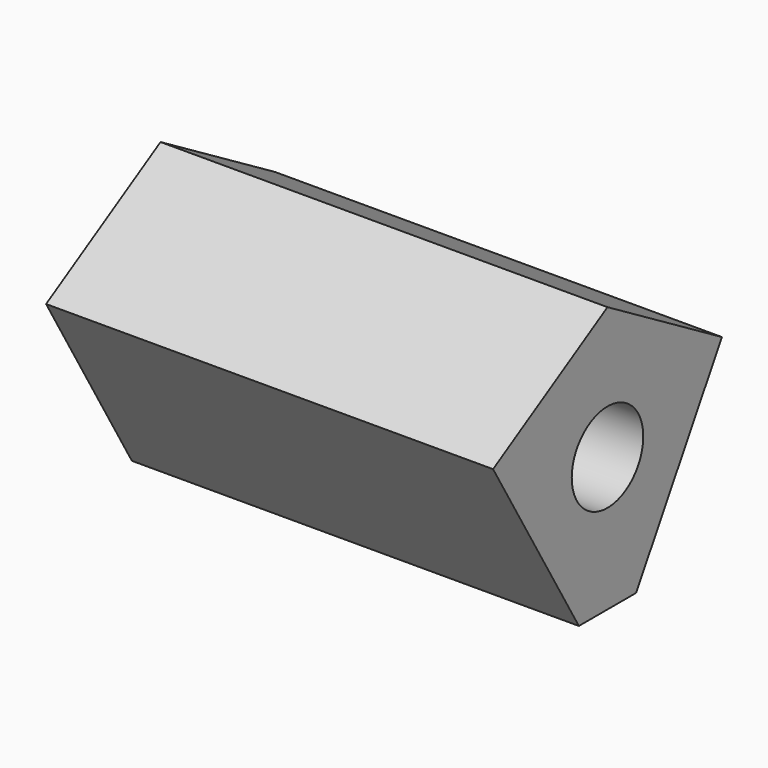
from build123d import *

# Parameters (mm, degrees)
F1_DEPTH = 25
F3_D     = 5


with BuildPart() as f1:
    # F0 (on Right) → F1 (new body)
    with BuildSketch(Plane.YZ):
        Polygon((-2, -10.160709), (2, -10.160709), (8, 0), (0, 4.72408), (-8, 0), align=None)
    extrude(amount=F1_DEPTH)

    # F3 (through all)
    with Locations(Plane.YZ.offset(25)):
        with Locations((0, -2.660709)):
            Hole(F3_D / 2)


solid = f1.part
